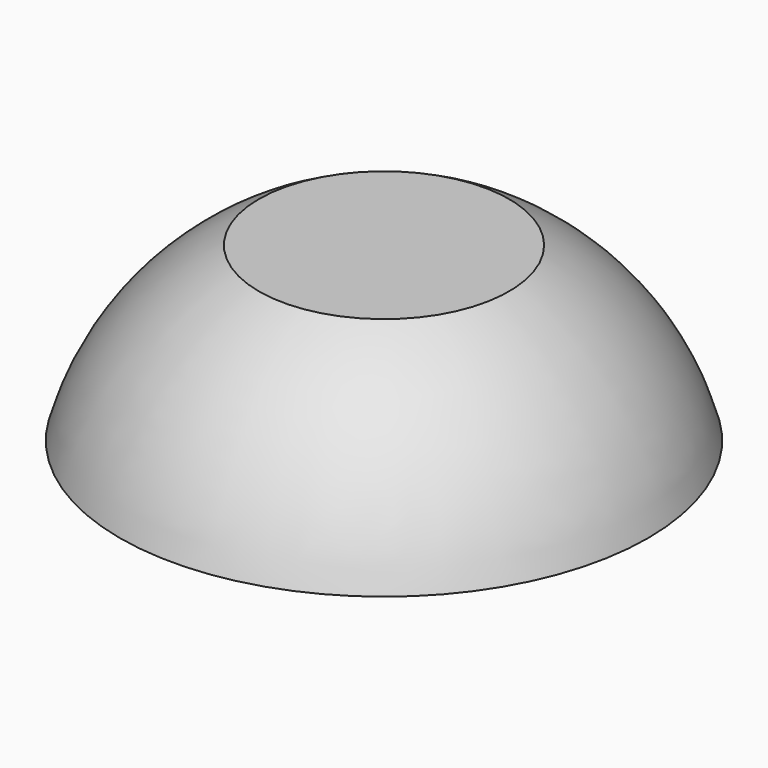
from build123d import *


with BuildPart() as f1:
    # F0 (on Front) → F1 (revolve)
    with BuildSketch(Plane.XZ):
        with BuildLine():
            ThreePointArc((-160, 311.287648), (-272.162591, 220.062546), (-337.885432, 91.287648))
            Line((-337.885432, 91.287648), (0, 91.287648))
            Line((0, 91.287648), (0, 311.287648))
            Line((0, 311.287648), (-160, 311.287648))
        make_face()
    revolve(axis=Axis((0, 0, 201.287648), (0, 0, -1)))


solid = f1.part
